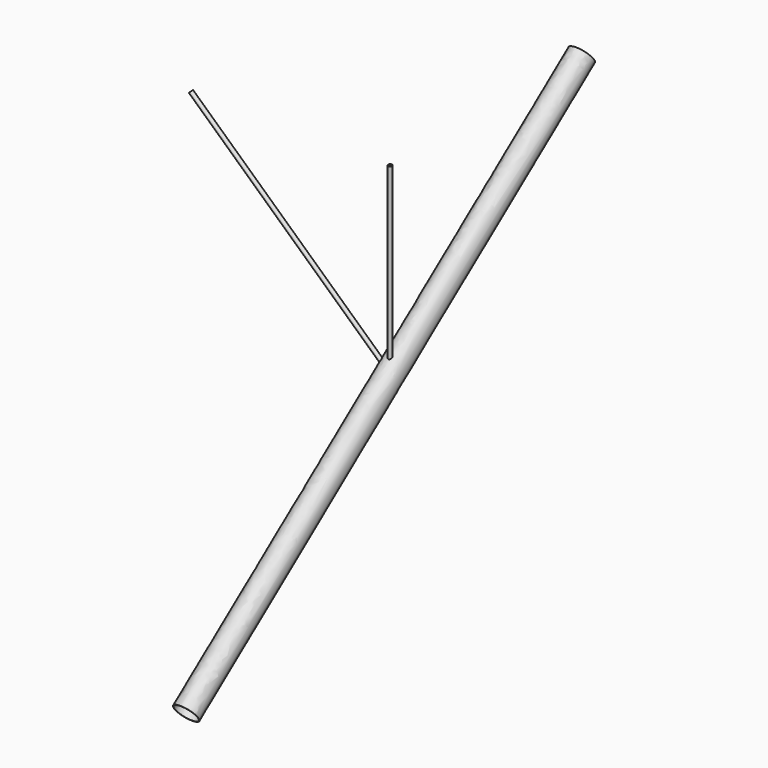
from build123d import *

# Parameters (mm, degrees)
F2_R    = 38.1
F4_R    = 36.449
F8_R    = 6.35
F8_R_2  = 5.461
F15_R   = 6.35
F15_R_2 = 5.461


with BuildPart() as f3:
    # F3: sweep along a path in F0
    with BuildLine(Plane.YZ) as f3_path:
        Line((0, 0), (-1574.8, -1206.5))
    # F2 (on line) → F3 (sweep)
    with BuildSketch(Plane(origin=(0, -1574.8, -1206.5), x_dir=(1, 0, 0), z_dir=(0, -0.7938123891, -0.6081627175))):
        Circle(F2_R)
    sweep(path=f3_path.line)

    # F5: sweep along a path in F0
    with BuildLine(Plane.YZ) as f5_path:
        Line((0, 0), (-1574.8, -1206.5))
    # F4 (on line) → F5 (sweep, cut)
    with BuildSketch(Plane(origin=(0, -1574.8, -1206.5), x_dir=(1, 0, 0), z_dir=(0, -0.7938123891, -0.6081627175))):
        Circle(F4_R)
    sweep(path=f5_path.line, mode=Mode.SUBTRACT)

    # F9: sweep along a path in F6
    with BuildLine(Plane.YZ) as f9_path:
        Line((-762, 0), (-762, -584.2))
    # F8 (on line) → F9 (sweep)
    with BuildSketch(Plane(origin=(0, 0, 0), x_dir=(1, 0, 0), z_dir=(0, 0, -1))):
        with Locations((0, 762.7405524254)):
            Circle(F8_R)
        with Locations((0, 762.7405524254)):
            Circle(F8_R_2, mode=Mode.SUBTRACT)
    sweep(path=f9_path.line)

    # F16: sweep along a path in F13
    with BuildLine(Plane(origin=(0, -761.8193030357, 0), x_dir=(-1, 0, 0), z_dir=(0, 1, 0))) as f16_path:
        Line((0, -584.2), (635, 0))
    # F15 (on line) → F16 (sweep)
    with BuildSketch(Plane(origin=(-343.9124783362, 0, 316.3994800693), x_dir=(0, -1, 0), z_dir=(-0.7359310118, 0, 0.6770565308))):
        with Locations((761.8193030357, -429.9308970713)):
            Circle(F15_R)
        with Locations((761.8193030357, -429.9308970713)):
            Circle(F15_R_2, mode=Mode.SUBTRACT)
    sweep(path=f16_path.line)


solid = f3.part
